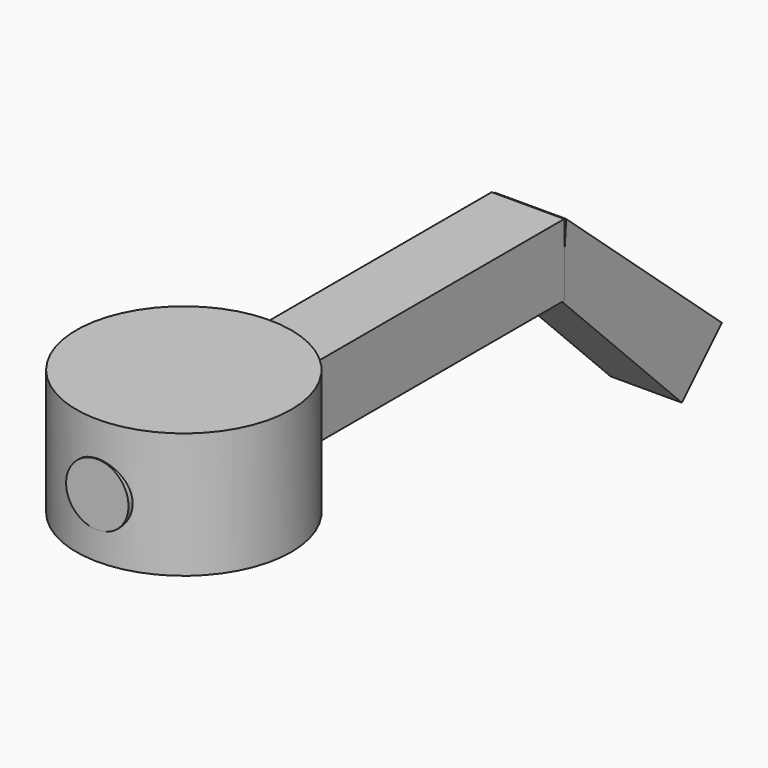
from build123d import *

# Parameters (mm, degrees)
F0_R      = 8.75
F1_DEPTH  = 10.2
F3_R      = 2.5153510356
F4_DEPTH  = 9.4
F5_R      = 8.35
F6_DEPTH  = 7
F8_R      = 2.5366513064
F9_DEPTH  = 0.5
F10_W     = 5.9026055969
F10_H     = 5.841257982
F11_DEPTH = 35
F2_R      = 2.5
F12_DEPTH = 35
F13_DEPTH = 7.9
F15_DEPTH = 2.9
F16_R     = 1.555514707
F17_DEPTH = 20.5


with BuildPart() as f1:
    # F0 (on Top) → F1 (new body)
    with BuildSketch(Plane.XY):
        Circle(F0_R)
    extrude(amount=F1_DEPTH)

    # F3 (on Front) → F4 (cut, symmetric)
    with BuildSketch(Plane.XZ):
        with Locations((0, 4.8764166422)):
            Circle(F3_R)
    extrude(amount=F4_DEPTH, both=True, mode=Mode.SUBTRACT)

    # F5 (on face) → F6 (cut)
    with BuildSketch(Plane(origin=(0, 0, 0), x_dir=(1, 0, 0), z_dir=(0, 0, -1))):
        Circle(F5_R)
    extrude(amount=-F6_DEPTH, mode=Mode.SUBTRACT)

    # F10 (on Front) → F11 (join)
    with BuildSketch(Plane.XZ):
        with Locations((0, 4.8186485656)):
            Rectangle(F10_W, F10_H)
    extrude(amount=-F11_DEPTH)

    # F2 (on Front) → F12 (cut)
    with BuildSketch(Plane.XZ):
        with Locations((0, 4.83)):
            Circle(F2_R)
    extrude(amount=-F12_DEPTH, mode=Mode.SUBTRACT)

    # F13 (cut): a face of the model
    f13_faces = [f1.faces().sort_by_distance(p)[0] for p in [
        (0, 0, 1.9786558078),
    ]]
    extrude(f13_faces, amount=-F13_DEPTH, mode=Mode.SUBTRACT)

    # F14 (on Right) → F15 (join, symmetric)
    with BuildSketch(Plane.YZ):
        Polygon((35.2653861046, 7.6153781265), (34.8130613565, 1.8859326374), (47.0258258283, -10.3268325329), (51.0967484399, -6.2559101541), align=None)
    extrude(amount=F15_DEPTH, both=True)

    # F16 (on face) → F17 (cut)
    with BuildSketch(Plane(origin=(0, 28.6763278358, -28.6763294759), x_dir=(1, 0, 0), z_dir=(0, 0.707106761, -0.7071068014))):
        with Locations((0, -28.8286850837)):
            Circle(F16_R)
    extrude(amount=-F17_DEPTH, mode=Mode.SUBTRACT)


with BuildPart() as f9:
    # F8 (on offset) → F9 (new body)
    with BuildSketch(Plane.XZ.offset(8.8)):
        with Locations((0, 4.8468452878)):
            Circle(F8_R)
    extrude(amount=-F9_DEPTH)


solid = Compound([f1.part, f9.part])
